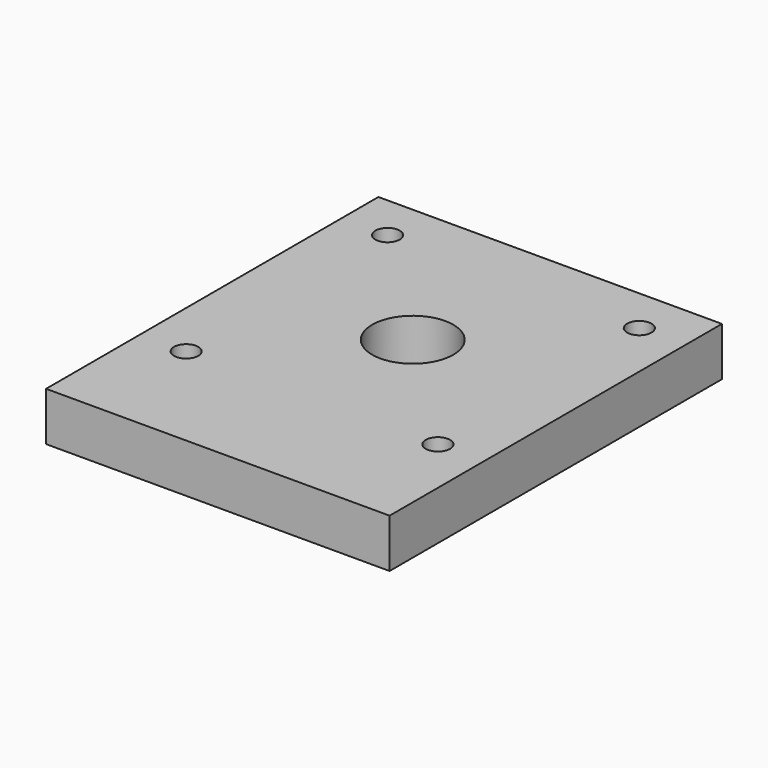
from build123d import *

# Parameters (mm, degrees)
F0_W     = 42.3
F0_H     = 51.15
F0_R     = 1.5
F0_R_2   = 5
F1_DEPTH = 6


with BuildPart() as f1:
    # F0 (on Top) → F1 (new body)
    with BuildSketch(Plane.XY):
        with Locations((0, -4.425)):
            Rectangle(F0_W, F0_H)
        with Locations((-15.5, -15.5)):
            Circle(F0_R, mode=Mode.SUBTRACT)
        with Locations((15.5, -15.5)):
            Circle(F0_R, mode=Mode.SUBTRACT)
        with Locations((-15.5, 15.5)):
            Circle(F0_R, mode=Mode.SUBTRACT)
        Circle(F0_R_2, mode=Mode.SUBTRACT)
        with Locations((15.5, 15.5)):
            Circle(F0_R, mode=Mode.SUBTRACT)
    extrude(amount=F1_DEPTH)


solid = f1.part
